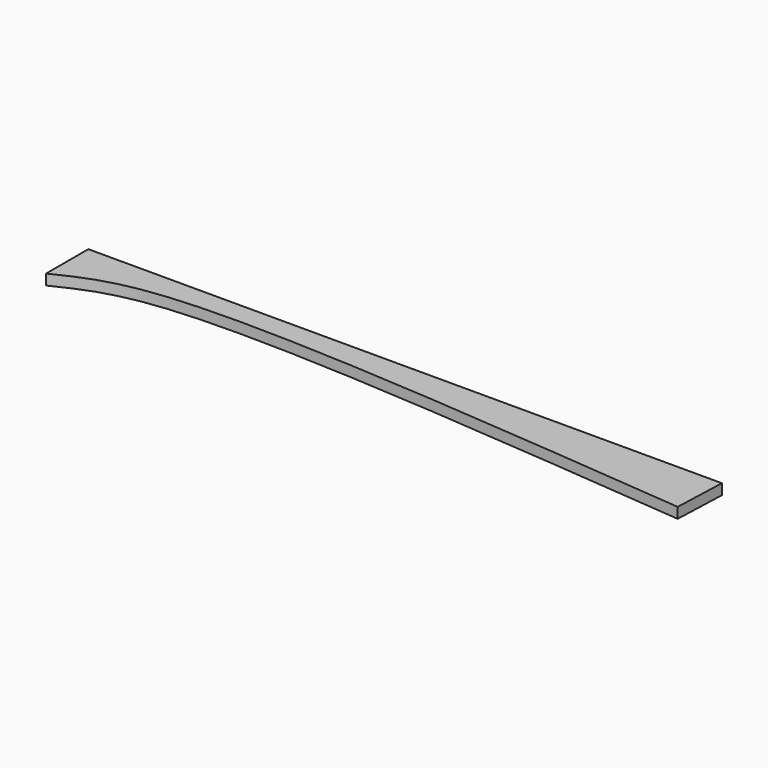
from build123d import *

# Parameters (mm, degrees)
F2_DEPTH = 2.54


with BuildPart() as f2:
    # F1 (on face) → F2 (new body)
    with BuildSketch(Plane.XY):
        with BuildLine():
            Line((0, 12.7), (0, 0))
            add(Edge.make_bspline(
                [(0, 0), (5.3020041395, 2.5969721022), (23.7623583323, 11.5467936119), (97.7811616433, 4.8182848467), (151.9206762314, 0)],
                knots=[0, 0, 0, 0, 0.288087224, 1, 1, 1, 1], degree=3))
            Line((151.9206762314, 0), (152.4, 12.7))
            Line((152.4, 12.7), (0, 12.7))
        make_face()
    extrude(amount=F2_DEPTH)


solid = f2.part
